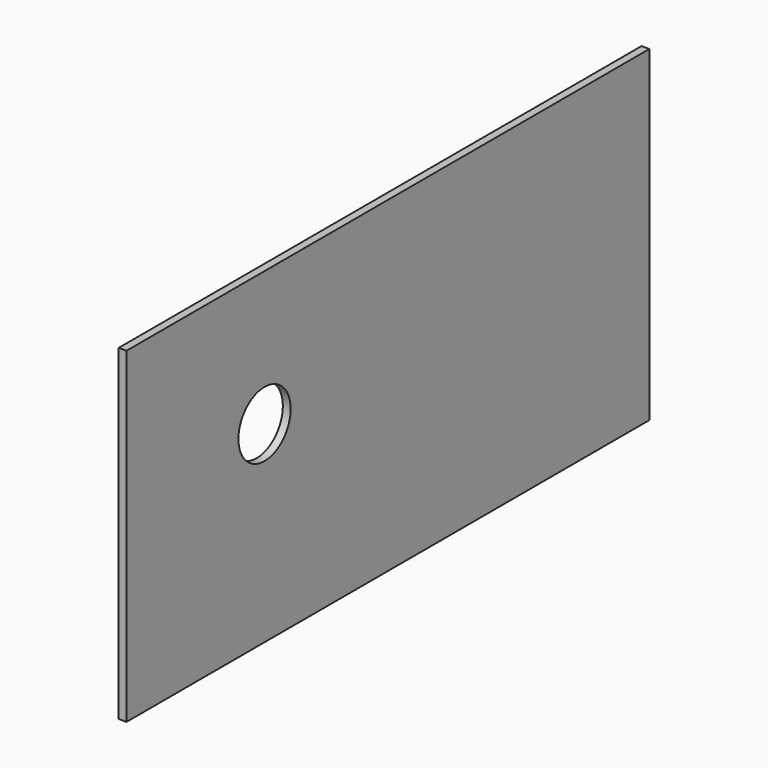
from build123d import *

# Parameters (mm, degrees)
SKETCH_W  = 500
SKETCH_H  = 250
SKETCH_R  = 25
PAD_DEPTH = 6


with BuildPart() as part:
    # Sketch → Pad (new body)
    with BuildSketch(Plane.YZ):
        with Locations((250, 125)):
            Rectangle(SKETCH_W, SKETCH_H)
        with Locations((132, 147)):
            Circle(SKETCH_R, mode=Mode.SUBTRACT)
    extrude(amount=PAD_DEPTH)


solid = part.part
